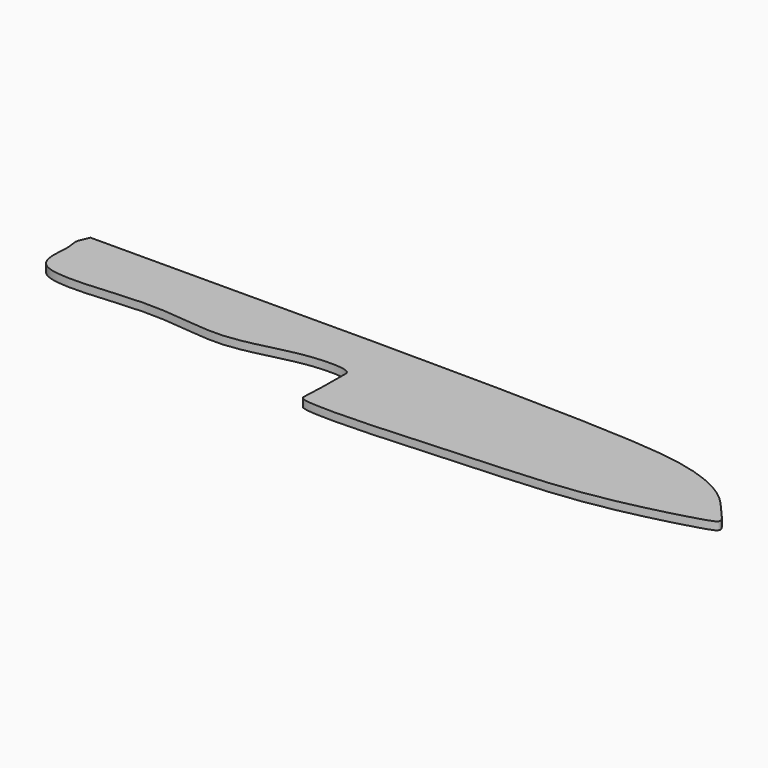
from build123d import *

# Parameters (mm, degrees)
F1_DEPTH = 3


with BuildPart() as f1:
    # F0 (on Top) → F1 (new body)
    with BuildSketch(Plane.XY):
        with BuildLine():
            add(Edge.make_bspline(
                [(-153.8311094046, 13.1689887494), (-74.7808611338, 13.5625688955), (38.0944991968, 14.1245595506), (79.0035465006, 9.0767371037), (95.0757965897, 0.9553419146), (101.3028018449, -7.1355326835), (106.5621752979, -12.4257840628), (100.1172045976, -15.1661250831), (63.471335625, -24.7314817748), (28.0146096915, -26.0965123755), (-41.6017959646, -30.9414010242), (-40.5002486767, -25.5579021791), (-40.232306199, -8.9762424907), (-40.4409343843, -5.2561929958), (-58.1914902193, -4.5892154092), (-85.0182326842, -14.4497383333), (-112.1869327049, -6.5841431222), (-158.5638978317, -15.6235385799), (-154.3861338652, 3.6809115658), (-155.9418484627, 8.0079504141), (-155.388829721, 9.4521678415), (-155.1728993654, 10.0160734728)],
                knots=[0, 0, 0, 0, 0.1607392455, 0.229518574, 0.2747343487, 0.3116751514, 0.3384061393, 0.3619145079, 0.4291368186, 0.5065905496, 0.5961906643, 0.6154305101, 0.6619756051, 0.6812154301, 0.7251947367, 0.7860210617, 0.8496533816, 0.9202421997, 0.9602111363, 0.9844641368, 1, 1, 1, 1], degree=3))
            Line((-153.8311094046, 13.1689887494), (-155.1728993654, 10.0160734728))
        make_face()
    extrude(amount=F1_DEPTH)


solid = f1.part
